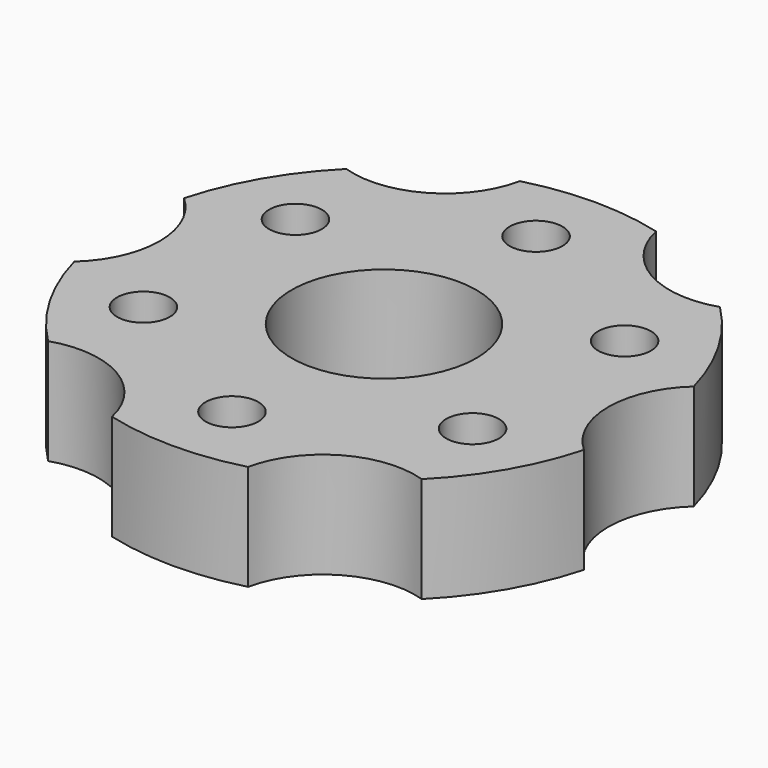
from build123d import *

# Parameters (mm, degrees)
F0_R     = 31.75
F0_R_2   = 11.1125
F1_DEPTH = 12.7
F3_DEPTH = 25.4
F4_R     = 3.175
F5_DEPTH = 25.4


with BuildPart() as f1:
    # F0 (on Top) → F1 (new body)
    with BuildSketch(Plane.XY):
        Circle(F0_R)
        Circle(F0_R_2, mode=Mode.SUBTRACT)
    extrude(amount=F1_DEPTH)

    # F2 (on Top) → F3 (cut)
    with BuildSketch(Plane.XY):
        with BuildLine():
            ThreePointArc((8.7188916363, -37.0889596596), (19.05, -32.9955678842), (27.760535447, -26.0952614797))
            ThreePointArc((27.760535447, -26.0952614797), (13.49375, -23.3718605846), (8.7188916363, -37.0889596596))
        make_face()
        with BuildLine():
            ThreePointArc((-27.760535447, -26.0952614797), (-19.05, -32.9955678842), (-8.7188916363, -37.0889596596))
            ThreePointArc((-8.7188916363, -37.0889596596), (-8.1345957944, -35.0792202734), (-7.9375, -32.9955678842))
            ThreePointArc((-7.9375, -32.9955678842), (-15.396793799, -22.500724355), (-27.760535447, -26.0952614797))
        make_face()
        with BuildLine():
            ThreePointArc((-26.9875, 0), (-29.68880886, 7.2621980045), (-36.4794270833, 10.9936981799))
            ThreePointArc((-36.4794270833, 10.9936981799), (-38.1, 0), (-36.4794270833, -10.9936981799))
            ThreePointArc((-36.4794270833, -10.9936981799), (-29.68880886, -7.2621980045), (-26.9875, 0))
        make_face()
        with BuildLine():
            ThreePointArc((-7.9375, 32.9955678842), (-8.1345957944, 35.0792202734), (-8.7188916363, 37.0889596596))
            ThreePointArc((-8.7188916363, 37.0889596596), (-19.05, 32.9955678842), (-27.760535447, 26.0952614797))
            ThreePointArc((-27.760535447, 26.0952614797), (-15.396793799, 22.500724355), (-7.9375, 32.9955678842))
        make_face()
        with BuildLine():
            ThreePointArc((8.7188916363, 37.0889596596), (13.49375, 23.3718605846), (27.760535447, 26.0952614797))
            ThreePointArc((27.760535447, 26.0952614797), (19.05, 32.9955678842), (8.7188916363, 37.0889596596))
        make_face()
        with BuildLine():
            ThreePointArc((36.4794270833, -10.9936981799), (37.6926794741, -5.55625), (38.1, 0))
            ThreePointArc((38.1, 0), (37.6926794741, 5.55625), (36.4794270833, 10.9936981799))
            ThreePointArc((36.4794270833, 10.9936981799), (26.9875, 0), (36.4794270833, -10.9936981799))
        make_face()
    extrude(amount=F3_DEPTH, mode=Mode.SUBTRACT)

    # F4 (on Top) → F5 (cut)
    with BuildSketch(Plane.XY):
        with Locations((0, 22.86)):
            Circle(F4_R)
        with Locations((-19.7973407305, 11.43)):
            Circle(F4_R)
        with Locations((-19.7973407305, -11.43)):
            Circle(F4_R)
        with Locations((0, -22.86)):
            Circle(F4_R)
        with Locations((19.7973407305, -11.43)):
            Circle(F4_R)
        with Locations((19.7973407305, 11.43)):
            Circle(F4_R)
    extrude(amount=F5_DEPTH, mode=Mode.SUBTRACT)


solid = f1.part
